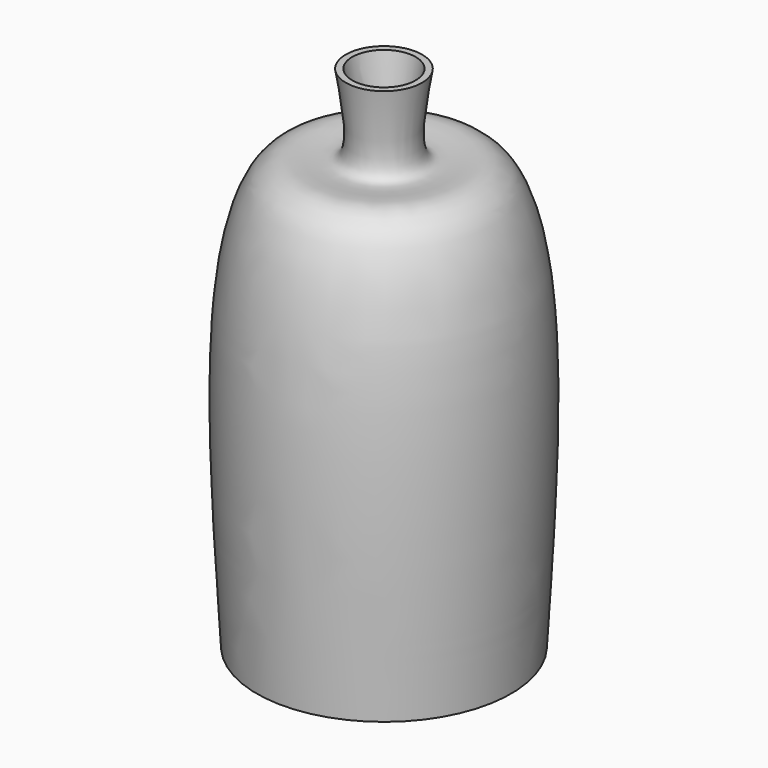
from build123d import *

# Parameters (mm, degrees)
F2_T = -1.27


with BuildPart() as f1:
    # F0 (on Front) → F1 (revolve)
    with BuildSketch(Plane.XZ):
        with BuildLine():
            Line((-25.4, -58.7999987483), (0, -58.7999987483))
            Line((0, -58.7999987483), (0, 42.8000012517))
            Line((0, 42.8000012517), (-7.62, 42.8000012517))
            add(Edge.make_bspline(
                [(-25.4, -58.7999987483), (-26.9676819933, -32.3765732897), (-29.335469783, 7.5327096071), (-18.9996435491, 30.3028500858), (-4.2271401895, 23.1992601453), (-6.3854837714, 35.6681318728), (-7.62, 42.8000012517)],
                knots=[0, 0, 0, 0, 0.4266467534, 0.6443966172, 0.7966041409, 1, 1, 1, 1], degree=3))
        make_face()
    revolve(axis=Axis((0, 0, -7.9999987483), (0, 0, -1)))

    # F2
    f2_openings = [f1.faces().sort_by_distance(p)[0] for p in [
        (0, 0, 42.800001),
    ]]
    offset(amount=F2_T, openings=f2_openings)


solid = f1.part
